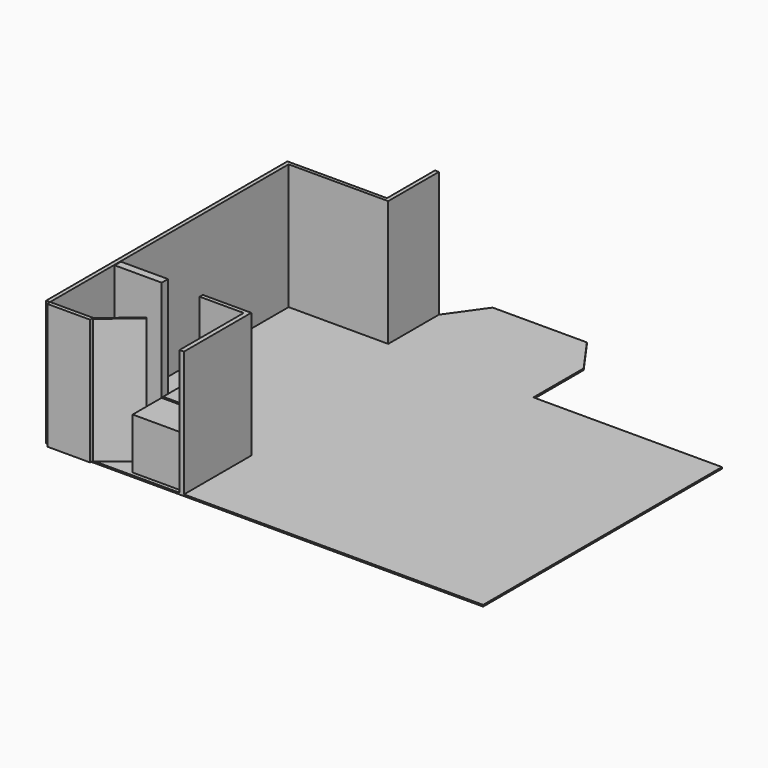
from build123d import *

# Parameters (mm, degrees)
PAD_DEPTH     = 0.1
SKETCH001_W   = 2.992089
SKETCH001_H   = 0.5
SKETCH001_W_2 = 2.718208
SKETCH001_H_2 = 0.25
PAD001_DEPTH  = 8
SKETCH003_W   = 3
SKETCH003_H   = 2.3
SKETCH003_W_2 = 2
SKETCH003_H_2 = 4.980278
SKETCH003_W_3 = 0.25
SKETCH003_H_3 = 5.1
PAD002_DEPTH  = 3.25
SKETCH004_R   = 0.9
PAD003_DEPTH  = 0.2


with BuildPart() as part:
    # Sketch → Pad (new body)
    with BuildSketch(Plane.XY):
        Polygon((0, 0), (0, 19), (6.33, 19), (6.33, 23), (7.95, 25.283769), (13.95, 25.283769), (15.57, 23), (15.57, 19), (27.57, 19), (27.57, 0), align=None)
    extrude(amount=PAD_DEPTH)

    # Sketch001 → Pad001 (new body)
    with BuildSketch(Plane.XY.offset(0.1)):
        Polygon((0, 18.987083), (0, 0), (-0.247297, 0), (-0.247297, 19.200211), (6.090689, 19.200211), (6.090689, 23.019194), (6.340689, 23.019194), (6.340689, 18.987083), align=None)
        Polygon((5.45, 5.1), (8.25, 5.1), (8.25, 0), (8.532358, 0), (8.532358, 5.35), (5.45, 5.35), align=None)
        Polygon((2.75, 0), (4.785295, 1.712651), (4.84968, 1.636137), (2.814385, -0.076515), align=None)
        with Locations((1.535533, 5.35)):
            Rectangle(SKETCH001_W, SKETCH001_H)
        with Locations((1.380876, -0.111513)):
            Rectangle(SKETCH001_W_2, SKETCH001_H_2)
    extrude(amount=PAD001_DEPTH)

    # Sketch003 → Pad002 (new body)
    with BuildSketch(Plane.XY.offset(0.1)):
        with Locations((6.555456, 3.832422)):
            Rectangle(SKETCH003_W, SKETCH003_H)
        with Locations((6.570963, 1.391803)):
            Rectangle(SKETCH003_W, SKETCH003_H)
        with Locations((1.036032, 2.552082)):
            Rectangle(SKETCH003_W_2, SKETCH003_H_2)
        with Locations((8.375, 2.55)):
            Rectangle(SKETCH003_W_3, SKETCH003_H_3)
        Polygon((2.75, 0), (4.785295, 1.712651), (4.84968, 1.636137), (2.814385, -0.076515), align=None)
    extrude(amount=PAD002_DEPTH)

    # Sketch004 → Pad003 (new body)
    with BuildSketch(Plane(origin=(5.070963, 0, 0), x_dir=(0, -1, 0), z_dir=(-1, 0, 0))):
        with Locations((-3.804629, 1.627155)):
            Circle(SKETCH004_R)
        with Locations((-1.376705, 1.679936)):
            Circle(SKETCH004_R)
    extrude(amount=PAD003_DEPTH)


solid = part.part
